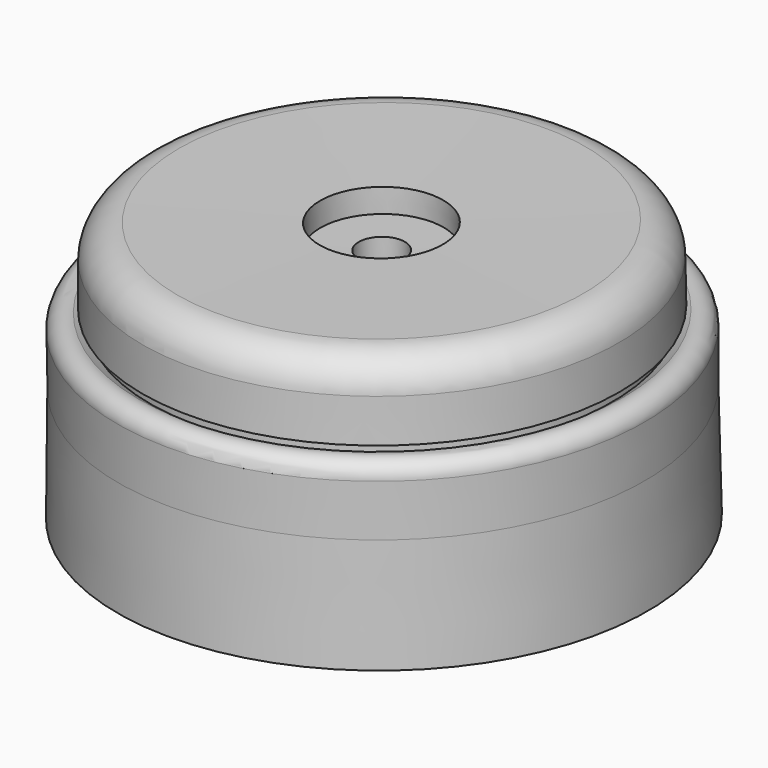
from build123d import *


with BuildPart() as f2:
    # F0 (on Front) → F2 (revolve)
    with BuildSketch(Plane.XZ):
        with BuildLine():
            ThreePointArc((-13.3637038751, 9.9299876019), (-14.1627202538, 9.8162619314), (-14.5244277004, 9.0947853727))
            Line((-14.5244277004, 9.0947853727), (-14.4742932171, 6.2504751841))
            Line((-14.4742932171, 6.2504751841), (-14.5186232403, 0))
            Line((-14.5186232403, 0), (0, 0))
            Line((0, 0), (-0.0152662604, 1.5993382476))
            Line((-0.0152662604, 1.5993382476), (-1.2421858264, 1.6145170666))
            Line((-1.2421858264, 1.6145170666), (-1.8724796828, 7.4175694026))
            Line((-1.8724796828, 7.4175694026), (-3.4590819851, 8.1565352157))
            Line((-3.4590819851, 8.1565352157), (-3.1521232403, 1.5934764208))
            Line((-3.1521232403, 1.5934764208), (-12.7521215063, 1.5992464713))
            Line((-12.7521215063, 1.5992464713), (-12.7521215063, 9.5264436677))
            Line((-12.7521215063, 9.5264436677), (-13.3637038751, 9.9299876019))
        make_face()
    revolve(axis=Axis((-0.0076331302, 0, 0.7996691238), (-0.0095449258, 0, 0.9999544462)))


with BuildPart() as f3:
    # F1 (on Front) → F3 (revolve)
    with BuildSketch(Plane.XZ):
        with BuildLine():
            Line((-12.4288613136, 8.155473838), (-3.5388504621, 8.0721956371))
            Line((-3.5388504621, 8.0721956371), (-3.5388504621, 8.2962643355))
            Line((-3.5388504621, 8.2962643355), (-1.3874736141, 8.2962643355))
            Line((-1.3874736141, 8.2962643355), (-1.3874736141, 12.971303954))
            Line((-1.3874736141, 12.971303954), (-3.497996673, 12.971303954))
            Line((-3.497996673, 12.971303954), (-3.5050702863, 14.2829762243))
            Line((-3.5050702863, 14.2829762243), (-11.2670098338, 14.295093542))
            ThreePointArc((-11.2670098338, 14.295093542), (-12.5739068779, 13.7736506866), (-13.162885025, 12.4957667805))
            Line((-13.162885025, 12.4957667805), (-13.162885025, 10.1295179739))
            Line((-13.162885025, 10.1295179739), (-12.4544352293, 10.1403146982))
            Line((-12.4544352293, 10.1403146982), (-12.4288613136, 8.155473838))
        make_face()
    revolve(axis=Axis((-0.0076331302, 0, 0.7996691238), (-0.0095449258, 0, 0.9999544462)))


solid = Compound([f2.part, f3.part])
